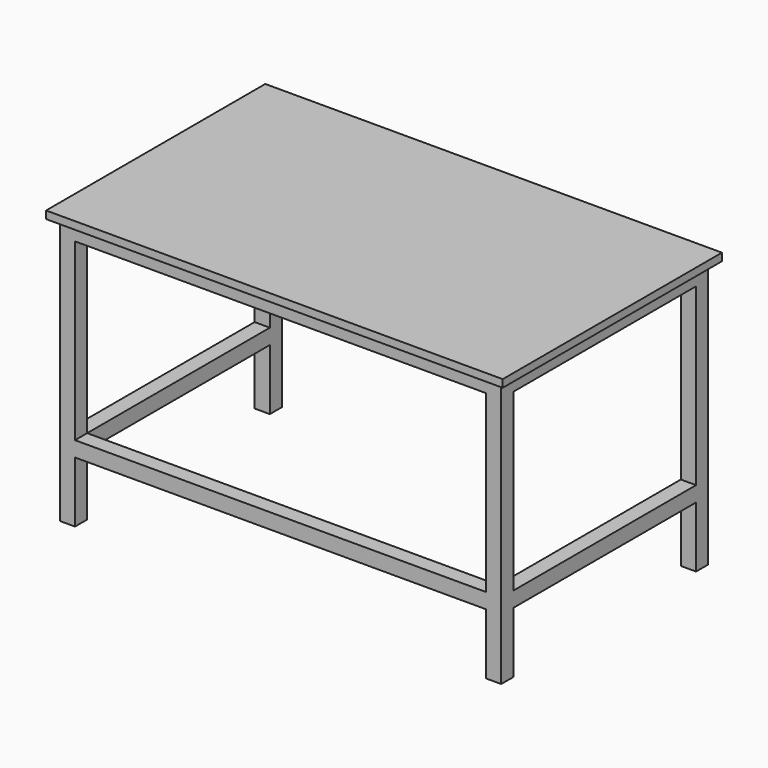
from build123d import *

# Parameters (mm, degrees)
F0_W     = 1524
F0_H     = 914.4
F1_DEPTH = 25.4
F2_W     = 1473.2
F2_H     = 863.6
F2_W_2   = 1371.6
F2_H_2   = 762
F3_DEPTH = 50.8
F4_W     = 50.8
F4_H     = 50.8
F5_DEPTH = 838.2
F6_W     = 50.8
F6_H     = 50.8
F7_DEPTH = 1371.6
F8_W     = 50.8
F8_H     = 50.8
F9_DEPTH = 762


with BuildPart() as f1:
    # F0 (on Top) → F1 (new body)
    with BuildSketch(Plane.XY):
        Rectangle(F0_W, F0_H)
    extrude(amount=-F1_DEPTH)

    # F2 (on face) → F3 (join)
    with BuildSketch(Plane(origin=(0, 0, -25.4), x_dir=(1, 0, 0), z_dir=(0, 0, -1))):
        Rectangle(F2_W, F2_H)
        Rectangle(F2_W_2, F2_H_2, mode=Mode.SUBTRACT)
    extrude(amount=F3_DEPTH)

    # F4 (on face) → F5 (join)
    with BuildSketch(Plane(origin=(0, 0, -76.2), x_dir=(1, 0, 0), z_dir=(0, 0, -1))):
        with Locations((711.2, 406.4)):
            Rectangle(F4_W, F4_H)
        with Locations((711.2, -406.4)):
            Rectangle(F4_W, F4_H)
        with Locations((-711.2, -406.4)):
            Rectangle(F4_W, F4_H)
        with Locations((-711.2, 406.4)):
            Rectangle(F4_W, F4_H)
    extrude(amount=F5_DEPTH)

    # F6 (on face) → F7 (join, through all)
    with BuildSketch(Plane.YZ.offset(-685.8)):
        with Locations((-406.4, -685.8)):
            Rectangle(F6_W, F6_H)
    extrude(amount=F7_DEPTH)

    # F8 (on face) → F9 (join, through all)
    with BuildSketch(Plane(origin=(0, -381, 0), x_dir=(-1, 0, 0), z_dir=(0, 1, 0))):
        with Locations((-711.2, -685.8)):
            Rectangle(F8_W, F8_H)
        with Locations((711.2, -685.8)):
            Rectangle(F8_W, F8_H)
    extrude(amount=F9_DEPTH)


solid = f1.part
